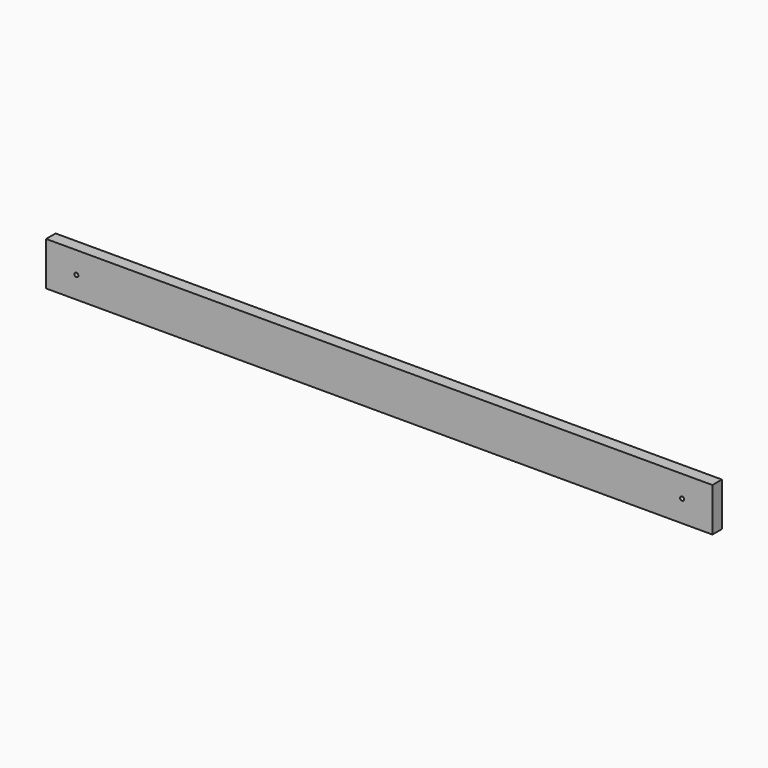
from build123d import *

# Parameters (mm, degrees)
F0_W     = 2133.6
F0_H     = 139.7
F1_DEPTH = 38.1
F2_D     = 12.7
F2_DEPTH = 609.6
F3_D     = 12.7
F3_DEPTH = 609.6


with BuildPart() as f1:
    # F0 (on Front) → F1 (new body)
    with BuildSketch(Plane.XZ):
        Rectangle(F0_W, F0_H)
    extrude(amount=-F1_DEPTH)

    # F2
    with Locations(Plane.XZ):
        with Locations((-969.7593, 0)):
            Hole(F2_D / 2, depth=F2_DEPTH)

    # F3
    with Locations(Plane.XZ):
        with Locations((969.7593, 0)):
            Hole(F3_D / 2, depth=F3_DEPTH)


solid = f1.part
